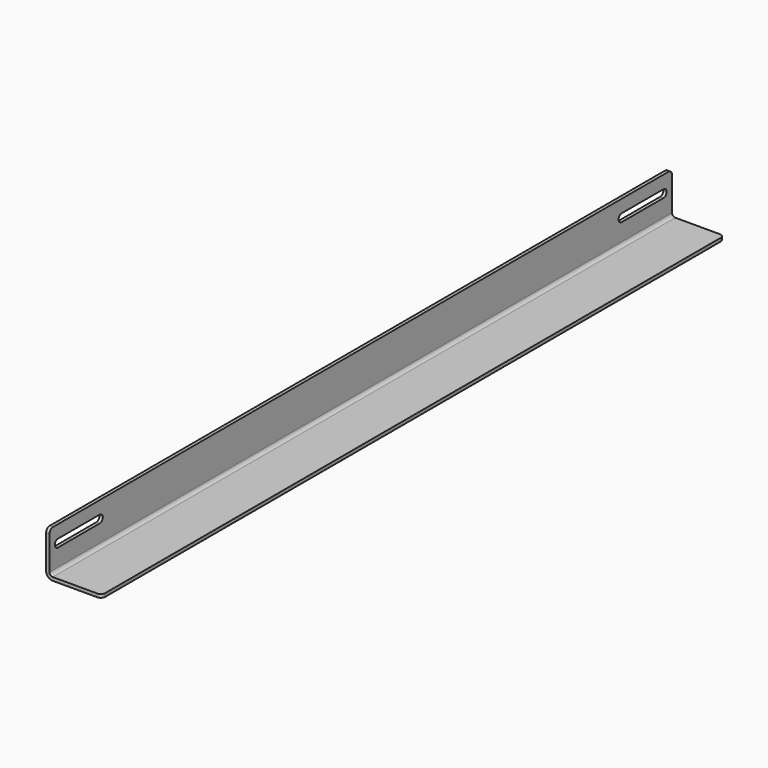
from build123d import *

# Parameters (mm, degrees)
F0_W      = 50
F0_H      = 40
F2_DEPTH  = 700
F1_W      = 47
F1_H      = 37
F3_DEPTH  = 700
F4_R      = 6
F5_R      = 3
F6_R      = 4
F7_R      = 4
F8_R      = 4
F9_R      = 4
F10_W     = 47
F10_H     = 7
F11_DEPTH = 3
F12_W     = 47
F12_H     = 7
F13_DEPTH = 3


with BuildPart() as f2:
    # F0 (on Front) → F2 (new body)
    with BuildSketch(Plane.XZ):
        with Locations((25, 20)):
            Rectangle(F0_W, F0_H)
    extrude(amount=-F2_DEPTH)

    # F1 (on face) → F3 (cut)
    with BuildSketch(Plane.XZ):
        with Locations((26.5, 21.5)):
            Rectangle(F1_W, F1_H)
    extrude(amount=-F3_DEPTH, mode=Mode.SUBTRACT)

    # F4
    f4_edges = [f2.edges().sort_by_distance(p)[0] for p in [
        (0, 350, 0),
    ]]
    fillet(f4_edges, radius=F4_R)

    # F5
    f5_edges = [f2.edges().sort_by_distance(p)[0] for p in [
        (3, 350, 3),
    ]]
    fillet(f5_edges, radius=F5_R)

    # F6
    f6_edges = [f2.edges().sort_by_distance(p)[0] for p in [
        (1.5, 0, 40),
    ]]
    fillet(f6_edges, radius=F6_R)

    # F7
    f7_edges = [f2.edges().sort_by_distance(p)[0] for p in [
        (1.5, 700, 40),
    ]]
    fillet(f7_edges, radius=F7_R)

    # F8
    f8_edges = [f2.edges().sort_by_distance(p)[0] for p in [
        (50, 0, 1.5),
    ]]
    fillet(f8_edges, radius=F8_R)

    # F9
    f9_edges = [f2.edges().sort_by_distance(p)[0] for p in [
        (50, 700, 1.5),
    ]]
    fillet(f9_edges, radius=F9_R)

    # F10 (on face) → F11 (cut)
    with BuildSketch(Plane(origin=(0, 0, 0), x_dir=(0, -1, 0), z_dir=(-1, 0, 0))):
        with Locations((-667, 25)):
            Rectangle(F10_W, F10_H)
        with BuildLine():
            Line((-690.5, 21.5), (-690.5, 28.5))
            ThreePointArc((-690.5, 28.5), (-694, 25), (-690.5, 21.5))
        make_face()
        with BuildLine():
            ThreePointArc((-643.5, 21.5), (-640, 25), (-643.5, 28.5))
            Line((-643.5, 28.5), (-643.5, 21.5))
        make_face()
    extrude(amount=-F11_DEPTH, mode=Mode.SUBTRACT)

    # F12 (on face) → F13 (cut)
    with BuildSketch(Plane(origin=(0, 0, 0), x_dir=(0, -1, 0), z_dir=(-1, 0, 0))):
        with Locations((-33, 25)):
            Rectangle(F12_W, F12_H)
        with BuildLine():
            Line((-56.5, 21.5), (-56.5, 28.5))
            ThreePointArc((-56.5, 28.5), (-60, 25), (-56.5, 21.5))
        make_face()
        with BuildLine():
            ThreePointArc((-9.5, 21.5), (-6, 25), (-9.5, 28.5))
            Line((-9.5, 28.5), (-9.5, 21.5))
        make_face()
        with Locations((-33, 25)):
            Rectangle(F12_W, F12_H)
    extrude(amount=-F13_DEPTH, mode=Mode.SUBTRACT)


solid = f2.part
